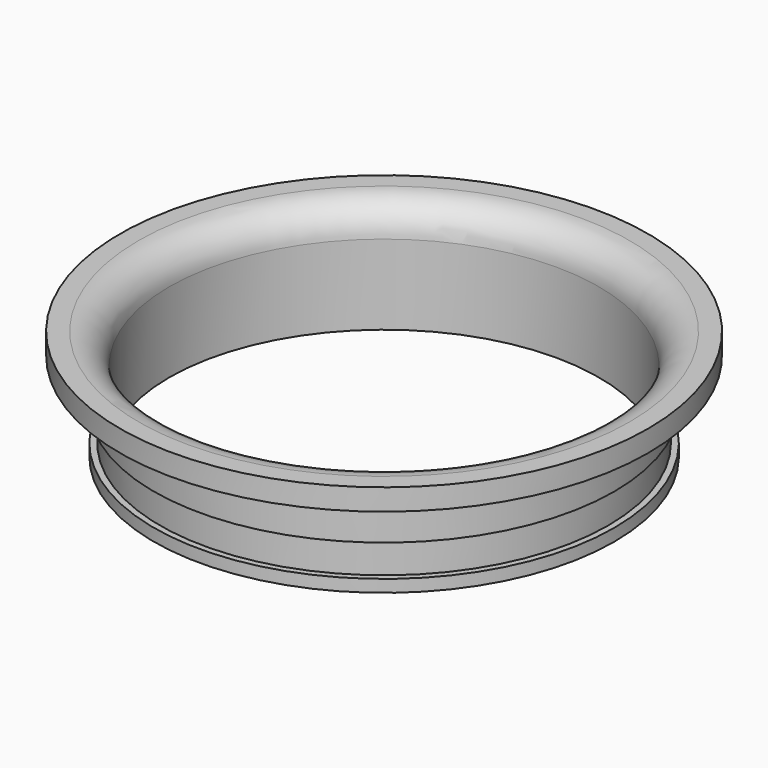
from build123d import *

# Parameters (mm, degrees)
F0_R     = 37.5
F0_R_2   = 35
F1_DEPTH = 18
F2_R     = 43
F2_R_2   = 35
F3_DEPTH = 3.5
F4_R     = 5
F6_R     = 37.5
F6_R_2   = 36.5
F7_DEPTH = 5.2


with BuildPart() as f1:
    # F0 (on Top) → F1 (new body)
    with BuildSketch(Plane.XY):
        Circle(F0_R)
        Circle(F0_R_2, mode=Mode.SUBTRACT)
    extrude(amount=F1_DEPTH)

    # F2 (on face) → F3 (join)
    with BuildSketch(Plane.XY.offset(18)):
        Circle(F2_R)
        Circle(F2_R_2, mode=Mode.SUBTRACT)
    extrude(amount=-F3_DEPTH)

    # F4
    f4_edges = [f1.edges().sort_by_distance(p)[0] for p in [
        (-35, 0, 18),
    ]]
    fillet(f4_edges, radius=F4_R)

    # F6 (on offset) → F7 (cut)
    with BuildSketch(Plane(origin=(0, 0, 2), x_dir=(1, 0, 0), z_dir=(0, 0, -1))):
        Circle(F6_R)
        Circle(F6_R_2, mode=Mode.SUBTRACT)
    extrude(amount=-F7_DEPTH, mode=Mode.SUBTRACT)


solid = f1.part
